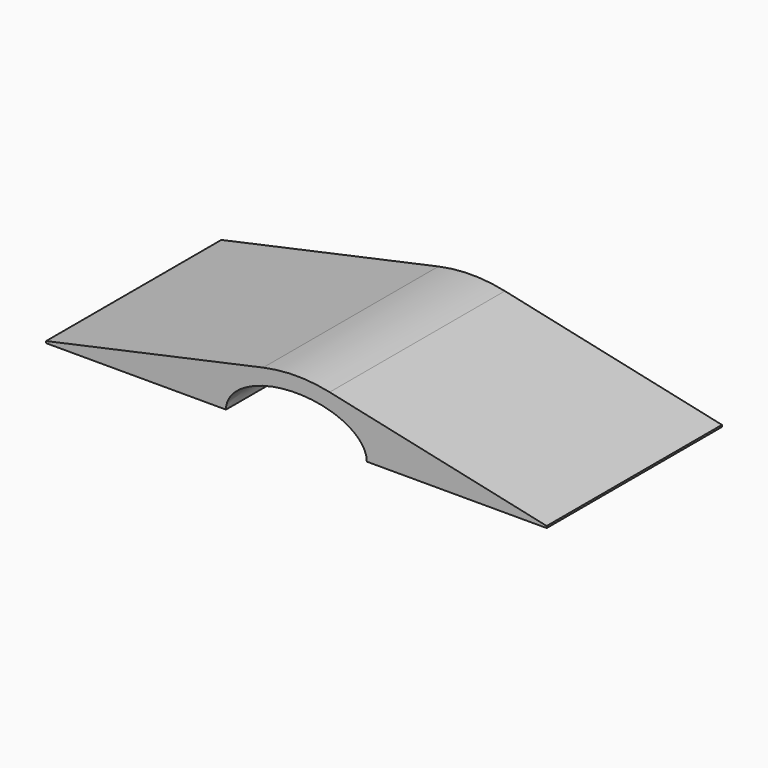
from build123d import *

# Parameters (mm, degrees)
F1_DEPTH = 70
F2_R     = 50


with BuildPart() as f1:
    # F0 (on Front) → F1 (new body)
    with BuildSketch(Plane.XZ):
        with BuildLine():
            Line((-80, 0.6), (-80, 0))
            Line((-80, 0), (-22.5, 0))
            add(Edge.make_bspline(
                [(0, 12), (-22.5, 12), (-22.5, 0)],
                knots=[4.712389, 4.712389, 4.712389, 6.283185, 6.283185, 6.283185], degree=2, weights=[1, 0.707107, 1]))
            add(Edge.make_bspline(
                [(22.5, 0), (22.5, 12), (0, 12)],
                knots=[3.141593, 3.141593, 3.141593, 4.712389, 4.712389, 4.712389], degree=2, weights=[1, 0.707107, 1]))
            Line((22.5, 0), (80, 0))
            Line((80, 0), (80, 0.6))
            Line((80, 0.6), (0, 18))
            Line((0, 18), (-80, 0.6))
        make_face()
    extrude(amount=F1_DEPTH)

    # F2
    f2_edges = [f1.edges().sort_by_distance(p)[0] for p in [
        (0, -35, 18),
    ]]
    fillet(f2_edges, radius=F2_R)


solid = f1.part
